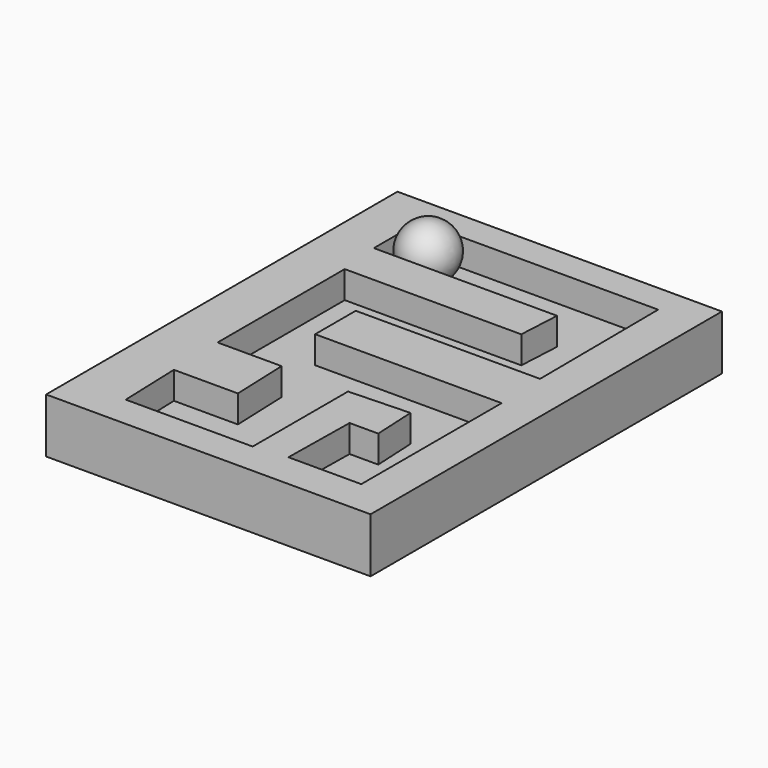
from build123d import *

# Parameters (mm, degrees)
SKETCH_W        = 59.393944
SKETCH_H        = 80.404041
PAD_DEPTH       = 10
POCKET_DEPTH    = 5
POCKET001_DEPTH = 5.001


with BuildPart() as body:
    # Sketch → Pad (new body)
    with BuildSketch(Plane.XY):
        with Locations((4e-06, -0.101011)):
            Rectangle(SKETCH_W, SKETCH_H)
    extrude(amount=PAD_DEPTH)

    # Sketch001 (on Face6 of Pad) → Pocket (cut)
    with BuildSketch(Plane.XY.offset(10)):
        Polygon((22.222214, 34.848495), (-21.414135, 34.848495), (-21.414135, 24.343437), (12.121216, 24.343437), (11.717175, 16.666668), (-20.60606, 16.666668), (-20.60606, -12.424243), (-8.888883, -12.424243), (-8.484843, -22.929292), (-20.202017, -22.929292), (-19.797977, -34.444443), (3.434352, -34.444443), (3.434352, -12.626264), (14.545455, -12.222222), (14.949498, -20.101009), (9.696976, -20.101009), (9.494952, -33.838383), (22.828302, -33.838383), (22.828302, -1.717174), (-11.313124, -1.717174), (-11.313124, 7.575759), (22.424244, 7.575759), align=None)
    extrude(amount=-POCKET_DEPTH, mode=Mode.SUBTRACT)

    # Sketch002 (on Face29 of Pocket) → Pocket001 (cut, through all)
    with BuildSketch(Plane.XY.offset(5)):
        Polygon((9.696976, -26.969696), (15.757576, -26.969696), (15.757576, -35.050507), (9.696976, -34.242424), align=None)
    extrude(amount=-POCKET001_DEPTH, mode=Mode.SUBTRACT)


with BuildPart() as sphere:
    # Sphere → Sphere (revolve)
    with BuildSketch(Plane(origin=(-16, 30, 9), x_dir=(1, 0, 0), z_dir=(0, -1, 0))):
        with BuildLine():
            ThreePointArc((0, -5), (5, 0), (0, 5))
            Line((0, 5), (0, -5))
        make_face()
    revolve(axis=Axis((-16, 30, 9), (0, 0, 1)))


solid = Compound([body.part, sphere.part])
